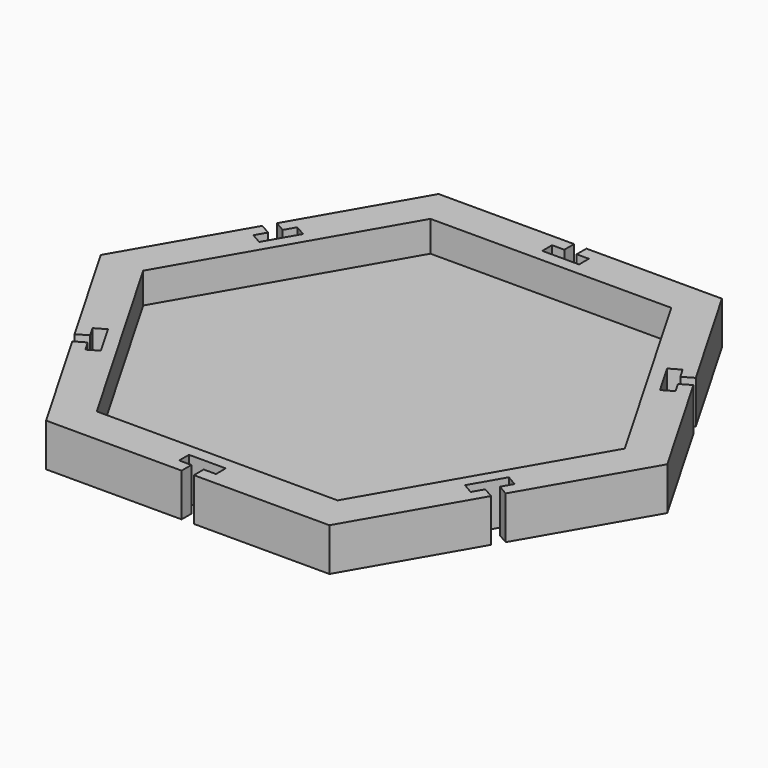
from build123d import *

# Parameters (mm, degrees)
F1_DEPTH = 2
F3_DEPTH = 5


with BuildPart() as f1:
    # F0 (on Top) → F1 (new body)
    with BuildSketch(Plane.XY):
        Polygon((-24.740927, -24.347703), (-13.693921, -43.481678), (8.400089, -43.481678), (8.400089, -41.481678), (6.400089, -41.481678), (6.400089, -39.481678), (12.400089, -39.481678), (12.400089, -41.481678), (10.400089, -41.481678), (10.400089, -43.481678), (32.4941, -43.481678), (43.541105, -24.347703), (41.809055, -23.347703), (40.809055, -25.079754), (39.077004, -24.079754), (42.077004, -18.883602), (43.809055, -19.883602), (42.809055, -21.615652), (44.541105, -22.615652), (55.588111, -3.481678), (44.541105, 15.652297), (42.809055, 14.652297), (43.809055, 12.920246), (42.077004, 11.920246), (39.077004, 17.116398), (40.809055, 18.116398), (41.809055, 16.384348), (43.541105, 17.384348), (32.4941, 36.518322), (10.400089, 36.518322), (10.400089, 34.518322), (12.400089, 34.518322), (12.400089, 32.518322), (6.400089, 32.518322), (6.400089, 34.518322), (8.400089, 34.518322), (8.400089, 36.518322), (-13.693921, 36.518322), (-24.740927, 17.384348), (-23.008876, 16.384348), (-22.008876, 18.116398), (-20.276825, 17.116398), (-23.276825, 11.920246), (-25.008876, 12.920246), (-24.008876, 14.652297), (-25.740927, 15.652297), (-36.787932, -3.481678), (-25.740927, -22.615652), (-24.008876, -21.615652), (-25.008876, -19.883602), (-23.276825, -18.883602), (-20.276825, -24.079754), (-22.008876, -25.079754), (-23.008876, -23.347703), align=None)
    extrude(amount=F1_DEPTH)

    # F2 (on face) → F3 (join)
    with BuildSketch(Plane.XY.offset(2)):
        Polygon((-25.740927, -22.615652), (-24.008876, -21.615652), (-25.008876, -19.883602), (-23.276825, -18.883602), (-20.276825, -24.079754), (-22.008876, -25.079754), (-23.008876, -23.347703), (-24.740927, -24.347703), (-13.693921, -43.481678), (8.400089, -43.481678), (8.400089, -41.481678), (6.400089, -41.481678), (6.400089, -39.481678), (12.400089, -39.481678), (12.400089, -41.481678), (10.400089, -41.481678), (10.400089, -43.481678), (32.4941, -43.481678), (43.541105, -24.347703), (41.809055, -23.347703), (40.809055, -25.079754), (39.077004, -24.079754), (42.077004, -18.883602), (43.809055, -19.883602), (42.809055, -21.615652), (44.541105, -22.615652), (55.588111, -3.481678), (44.541105, 15.652297), (42.809055, 14.652297), (43.809055, 12.920246), (42.077004, 11.920246), (39.077004, 17.116398), (40.809055, 18.116398), (41.809055, 16.384348), (43.541105, 17.384348), (32.4941, 36.518322), (10.400089, 36.518322), (10.400089, 34.518322), (12.400089, 34.518322), (12.400089, 32.518322), (6.400089, 32.518322), (6.400089, 34.518322), (8.400089, 34.518322), (8.400089, 36.518322), (-13.693921, 36.518322), (-24.740927, 17.384348), (-23.008876, 16.384348), (-22.008876, 18.116398), (-20.276825, 17.116398), (-23.276825, 11.920246), (-25.008876, 12.920246), (-24.008876, 14.652297), (-25.740927, 15.652297), (-36.787932, -3.481678), align=None)
        Polygon((-10.22982, -37.481678), (-29.859729, -3.481678), (-10.22982, 30.518322), (29.029998, 30.518322), (48.659908, -3.481678), (29.029998, -37.481678), align=None, mode=Mode.SUBTRACT)
    extrude(amount=F3_DEPTH)


solid = f1.part
